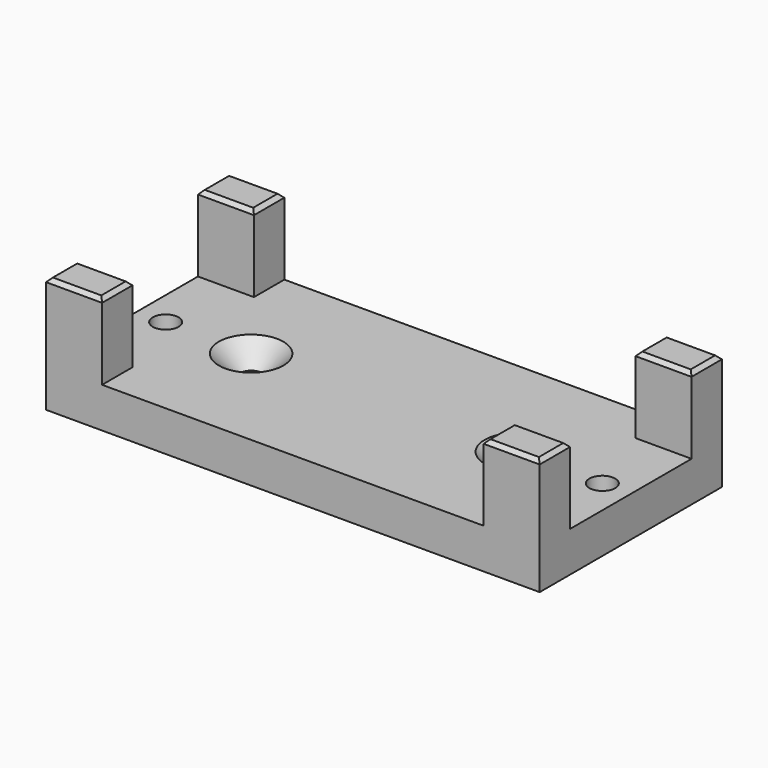
from build123d import *

# Parameters (mm, degrees)
F0_W           = 130
F0_H           = 60
F1_DEPTH       = 10.6
F2_W           = 14.75
F2_H           = 10
F3_DEPTH       = 20
F5_D           = 6.8
F7_D           = 6
F7_CSINK_D     = 17
F7_CSINK_ANGLE = 90
F8_SIZE        = 1


with BuildPart() as f1:
    # F0 (on Top) → F1 (new body)
    with BuildSketch(Plane.XY):
        Rectangle(F0_W, F0_H)
    extrude(amount=F1_DEPTH)

    # F2 (on face) → F3 (join)
    with BuildSketch(Plane.XY.offset(10.6)):
        with Locations((-57.625, 25)):
            Rectangle(F2_W, F2_H)
        with Locations((-57.625, -25)):
            Rectangle(F2_W, F2_H)
        with Locations((57.625, -25)):
            Rectangle(F2_W, F2_H)
        with Locations((57.625, 25)):
            Rectangle(F2_W, F2_H)
    extrude(amount=F3_DEPTH)

    # F5 (through all)
    with Locations(Plane.XY.offset(10.6)):
        with Locations((57.5, 0), (-57.5, 0)):
            Hole(F5_D / 2)

    # F7 (through all)
    with Locations(Plane.XY.offset(10.6)):
        with Locations((35, 0), (-35, 0)):
            CounterSinkHole(F7_D / 2, F7_CSINK_D / 2, counter_sink_angle=F7_CSINK_ANGLE)

    # F8
    f8_edges = [f1.edges().sort_by_distance(p)[0] for p in [
        (-57.625, -30, 30.6),
        (-50.25, -25, 30.6),
        (-57.625, -20, 30.6),
        (-65, -25, 30.6),
        (-57.625, 20, 30.6),
        (-57.625, 30, 30.6),
        (-50.25, 25, 30.6),
        (-65, 25, 30.6),
        (50.25, -25, 30.6),
        (57.625, -20, 30.6),
        (65, -25, 30.6),
        (57.625, -30, 30.6),
        (65, 25, 30.6),
        (57.625, 20, 30.6),
        (50.25, 25, 30.6),
        (57.625, 30, 30.6),
    ]]
    chamfer(f8_edges, length=F8_SIZE)


solid = f1.part
